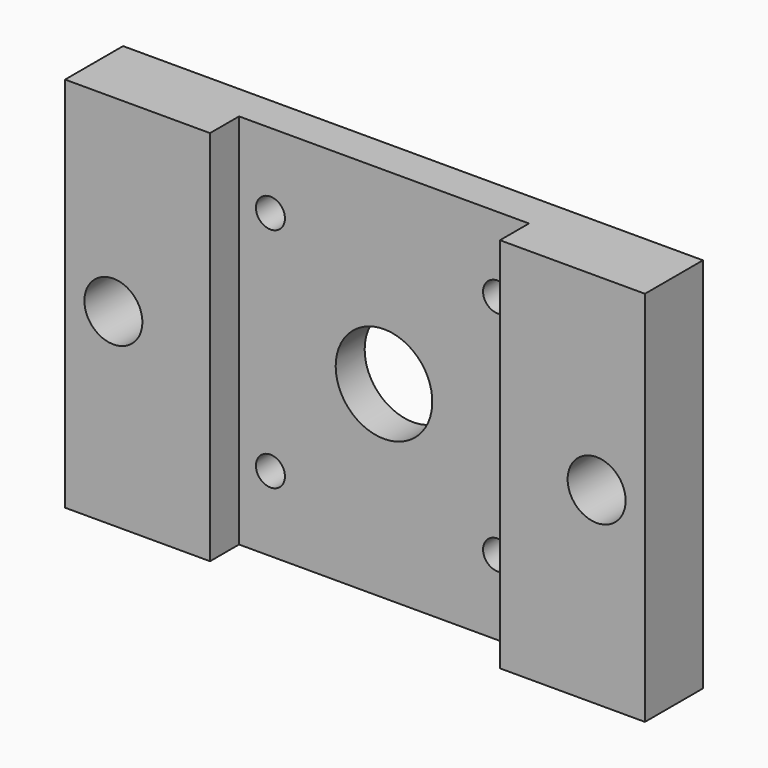
from build123d import *

# Parameters (mm, degrees)
F0_W     = 120
F0_H     = 78
F0_R     = 6
F1_DEPTH = 15
F2_W     = 60
F2_H     = 78
F3_DEPTH = 7.5
F5_D     = 6
F7_D     = 20


with BuildPart() as f1:
    # F0 (on Front) → F1 (new body)
    with BuildSketch(Plane.XZ):
        with Locations((60, 39)):
            Rectangle(F0_W, F0_H)
        with Locations((10, 39)):
            Circle(F0_R, mode=Mode.SUBTRACT)
        with Locations((110, 39)):
            Circle(F0_R, mode=Mode.SUBTRACT)
    extrude(amount=F1_DEPTH)

    # F2 (on face) → F3 (cut)
    with BuildSketch(Plane.XZ.offset(15)):
        with Locations((60, 39)):
            Rectangle(F2_W, F2_H)
    extrude(amount=-F3_DEPTH, mode=Mode.SUBTRACT)

    # F5 (through all)
    with Locations(Plane.XZ.offset(7.5)):
        with Locations((36.5, 62.5), (36.5, 15.5), (83.5, 15.5), (83.5, 62.5)):
            Hole(F5_D / 2)

    # F7 (through all)
    with Locations(Plane.XZ.offset(7.5)):
        with Locations((60, 39)):
            Hole(F7_D / 2)


solid = f1.part
